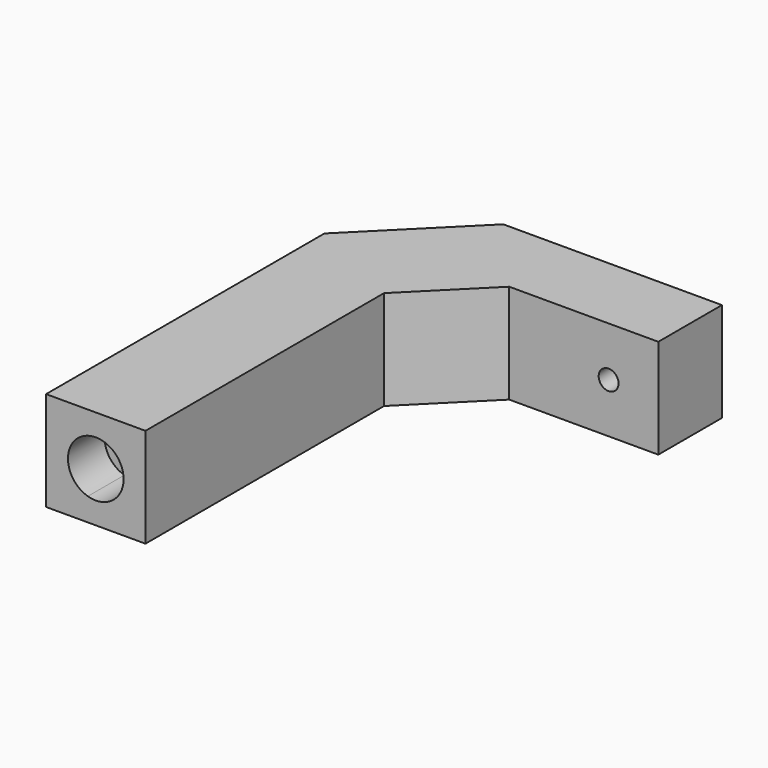
from build123d import *

# Parameters (mm, degrees)
PAD_DEPTH       = 10
CHAMFER_SIZE    = 10
POCKET_DEPTH    = 10.6
SKETCH002_R     = 2.8
POCKET001_DEPTH = 4.6
SKETCH003_R     = 1
POCKET002_DEPTH = 45.001
SKETCH004_R     = 4
POCKET003_DEPTH = 5
CHAMFER001_SIZE = 1
CHAMFER002_SIZE = 1


with BuildPart() as part:
    # Sketch → Pad (new body)
    with BuildSketch(Plane.XY):
        Polygon((22, 15), (-10, 15), (-10, -30), (0, -30), (0, 0), (7, 7), (22, 7), align=None)
    extrude(amount=PAD_DEPTH)

    # Chamfer
    chamfer_edges = [part.edges().sort_by_distance(p)[0] for p in [
        (-10, 15, 5),
    ]]
    chamfer(chamfer_edges, length=CHAMFER_SIZE)

    # Sketch001 → Pocket (cut)
    with BuildSketch(Plane.XZ.offset(30)):
        with BuildLine():
            ThreePointArc((-5.8, 2.316718), (-2.2, 5), (-5.8, 7.683282))
            Line((-5.8, 7.683282), (-5.8, 2.316718))
        make_face()
    extrude(amount=-POCKET_DEPTH, mode=Mode.SUBTRACT)

    # Sketch002 → Pocket001 (cut)
    with BuildSketch(Plane.XZ.offset(30)):
        with Locations((-5, 5)):
            Circle(SKETCH002_R)
    extrude(amount=-POCKET001_DEPTH, mode=Mode.SUBTRACT)

    # Sketch003 → Pocket002 (cut, through all)
    with BuildSketch(Plane(origin=(0, 15, 0), x_dir=(-1, 0, 0), z_dir=(0, 1, 0))):
        with Locations((-17, 5)):
            Circle(SKETCH003_R)
    extrude(amount=-POCKET002_DEPTH, mode=Mode.SUBTRACT)

    # Sketch004 → Pocket003 (cut)
    with BuildSketch(Plane(origin=(0, 15, 0), x_dir=(-1, 0, 0), z_dir=(0, 1, 0))):
        with Locations((-17, 5)):
            Circle(SKETCH004_R)
    extrude(amount=-POCKET003_DEPTH, mode=Mode.SUBTRACT)

    # Chamfer001
    chamfer001_edges = [part.edges().sort_by_distance(p)[0] for p in [
        (21, 10, 5),
    ]]
    chamfer(chamfer001_edges, length=CHAMFER001_SIZE)

    # Chamfer002
    chamfer002_edges = [part.edges().sort_by_distance(p)[0] for p in [
        (18, 10, 5),
    ]]
    chamfer(chamfer002_edges, length=CHAMFER002_SIZE)


solid = part.part
